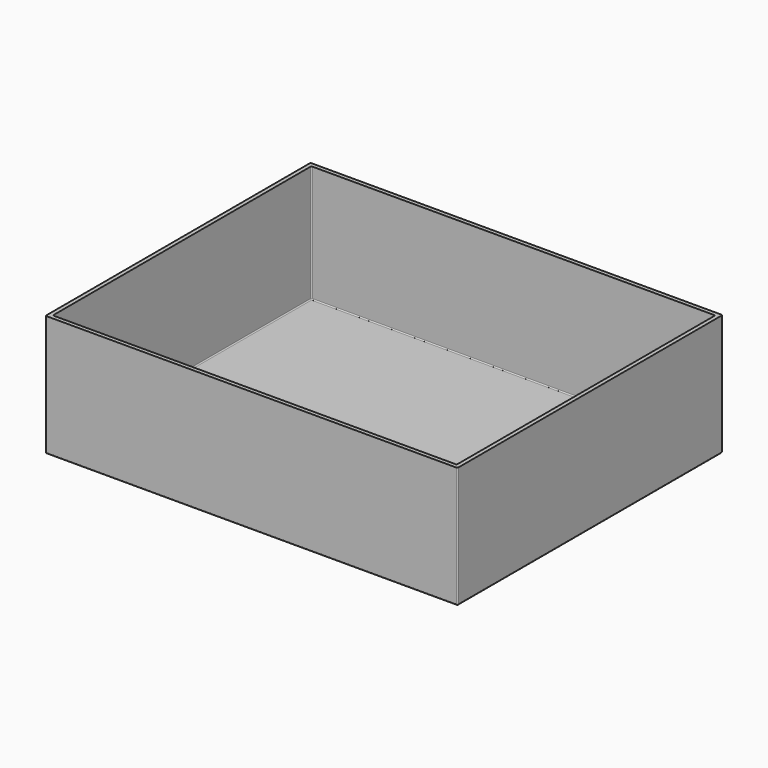
from build123d import *

# Parameters (mm, degrees)
BOX002_W     = 110
BOX002_H     = 100
BOX002_DEPTH = 20
BOX001_W     = 100
BOX001_H     = 80
BOX001_DEPTH = 50
BOX_W        = 102
BOX_H        = 82
BOX_DEPTH    = 50
FILLET_R     = 0.25


with BuildPart() as cube002:
    # Box002 → Box002 (new body)
    with BuildSketch(Plane(origin=(-10, -10, 30), x_dir=(1, 0, 0), z_dir=(0, 0, 1))):
        with Locations((55, 50)):
            Rectangle(BOX002_W, BOX002_H)
    extrude(amount=BOX002_DEPTH)


with BuildPart() as cube001:
    # Box001 → Box001 (new body)
    with BuildSketch(Plane(origin=(1, 1, 1), x_dir=(1, 0, 0), z_dir=(0, 0, 1))):
        with Locations((50, 40)):
            Rectangle(BOX001_W, BOX001_H)
    extrude(amount=BOX001_DEPTH)


with BuildPart() as box:
    # Box → Box (new body)
    with BuildSketch(Plane.XY):
        with Locations((51, 41)):
            Rectangle(BOX_W, BOX_H)
    extrude(amount=BOX_DEPTH)

    # Cut: cut Cube001
    add(cube001.part, mode=Mode.SUBTRACT)

    # Fillet
    fillet_edges = [box.edges().sort_by_distance(p)[0] for p in [
        (0, 0, 25),
        (0, 41, 50),
        (0, 82, 25),
        (0, 41, 0),
        (51, 0, 0),
        (102, 0, 25),
        (51, 0, 50),
        (51, 82, 50),
        (102, 41, 50),
        (51, 1, 50),
        (101, 41, 50),
        (51, 81, 50),
        (1, 41, 50),
        (51, 82, 0),
        (102, 82, 25),
        (102, 41, 0),
        (101, 1, 25.5),
        (1, 1, 25.5),
        (51, 1, 1),
        (101, 81, 25.5),
        (101, 41, 1),
        (1, 81, 25.5),
        (51, 81, 1),
        (1, 41, 1),
    ]]
    fillet(fillet_edges, radius=FILLET_R)


with BuildPart() as box_1:
    # Fillet placement: moved
    add(box.part.moved(Location((-3.5, -3.5, 0))))

    # Cut005: cut Cube002
    add(cube002.part, mode=Mode.SUBTRACT)


solid = box_1.part
